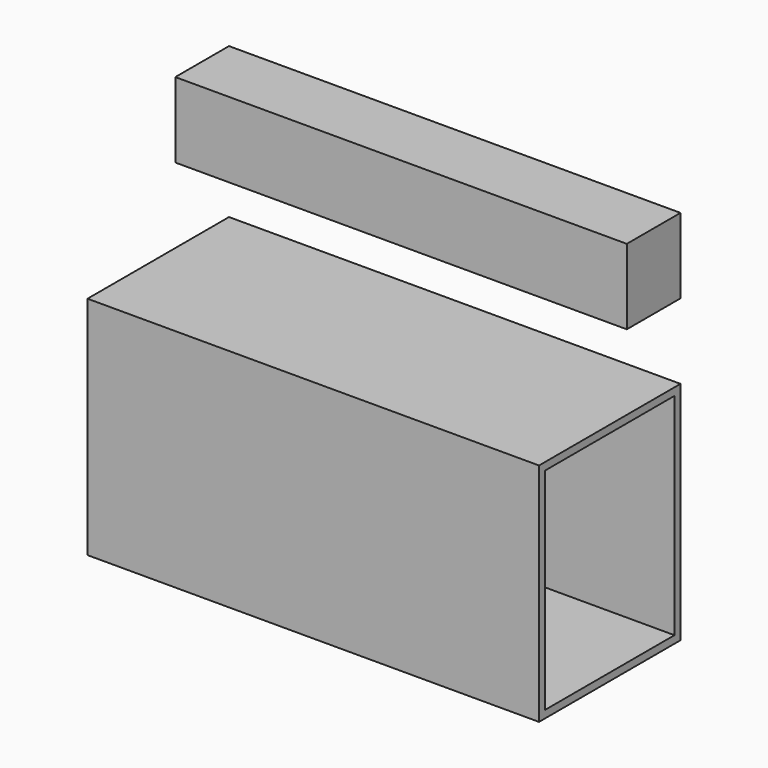
from build123d import *

# Parameters (mm, degrees)
F0_W     = 596.9
F0_H     = 762
F0_W_2   = 226.44113
F0_H_2   = 254
F1_DEPTH = 1524
F2_W     = 546.1
F2_H     = 711.2
F3_DEPTH = 1693.74904


with BuildPart() as f1:
    # F0 (on Right) → F1 (new body)
    with BuildSketch(Plane.YZ):
        with Locations((-298.45, -381)):
            Rectangle(F0_W, F0_H)
        with Locations((-113.220565, 381)):
            Rectangle(F0_W_2, F0_H_2)
    extrude(amount=F1_DEPTH)

    # F2 (on face) → F3 (cut)
    with BuildSketch(Plane.YZ.offset(1524)):
        with Locations((-298.45, -381)):
            Rectangle(F2_W, F2_H)
    extrude(amount=-F3_DEPTH, mode=Mode.SUBTRACT)


solid = f1.part
